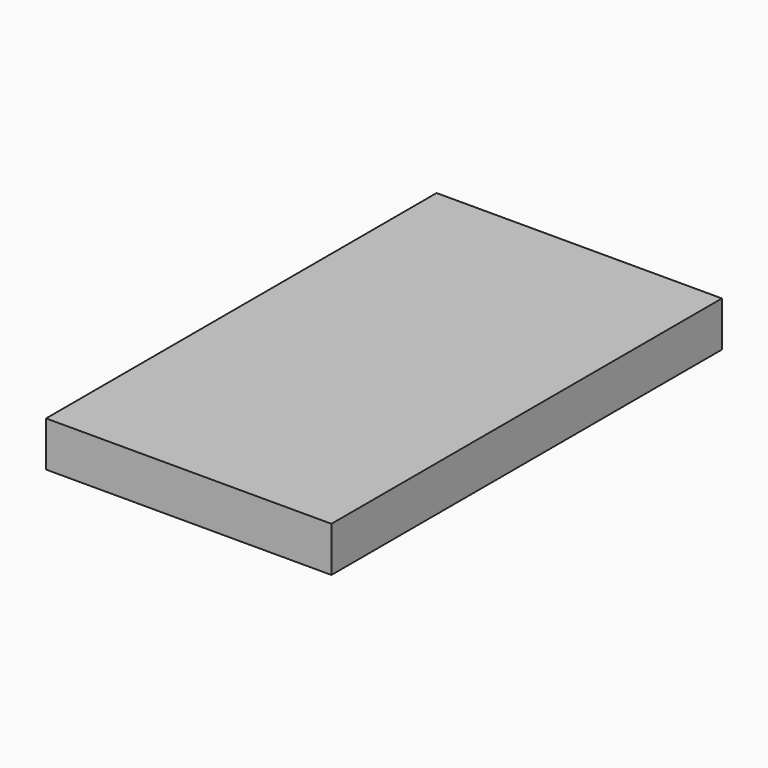
from build123d import *

# Parameters (mm, degrees)
SKETCH_W  = 76
SKETCH_H  = 130
PAD_DEPTH = 12


with BuildPart() as part:
    # Sketch → Pad (new body)
    with BuildSketch(Plane.XY):
        with Locations((38, 65)):
            Rectangle(SKETCH_W, SKETCH_H)
    extrude(amount=PAD_DEPTH)


solid = part.part
